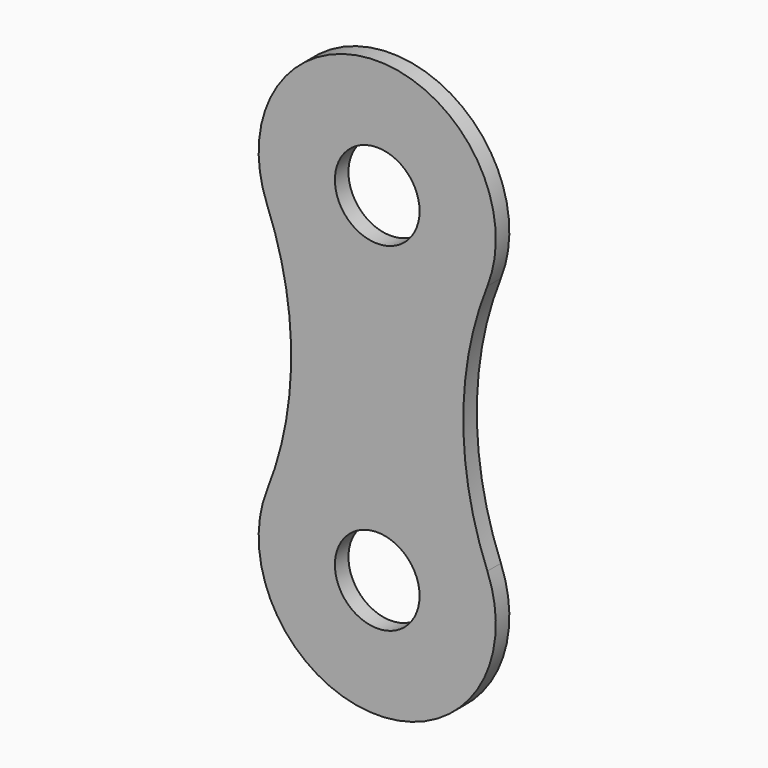
from build123d import *

# Parameters (mm, degrees)
F0_R     = 2.5
F1_DEPTH = 1


with BuildPart() as f1:
    # F0 (on Front) → F1 (new body)
    with BuildSketch(Plane.XZ):
        with BuildLine():
            ThreePointArc((-39.102502, 50.809202), (-40.524819, 58.216609), (-39.102502, 65.624016))
            ThreePointArc((-39.102502, 65.624016), (-45.604691, 75.216609), (-52.10688, 65.624016))
            ThreePointArc((-52.10688, 65.624016), (-50.684563, 58.216609), (-52.10688, 50.809202))
            ThreePointArc((-52.10688, 50.809202), (-45.604691, 41.216609), (-39.102502, 50.809202))
        make_face()
        with Locations((-45.604691, 48.216609)):
            Circle(F0_R, mode=Mode.SUBTRACT)
        with Locations((-45.604691, 68.216609)):
            Circle(F0_R, mode=Mode.SUBTRACT)
    extrude(amount=F1_DEPTH)


solid = f1.part
